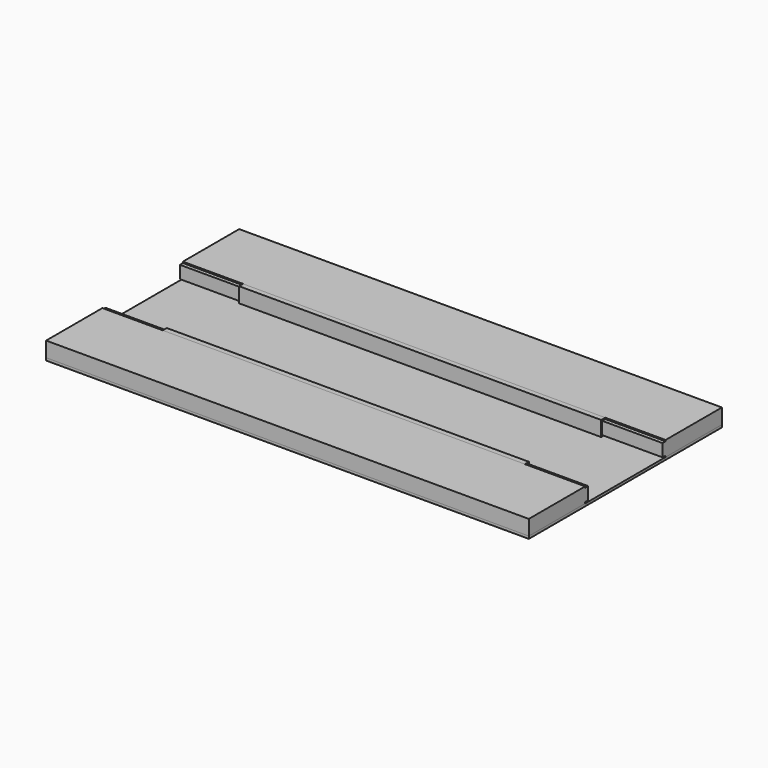
from build123d import *

# Parameters (mm, degrees)
F0_W     = 2438.4
F0_H     = 1219.2
F1_DEPTH = 12.7
F2_W     = 2438.4
F2_H     = 381
F3_DEPTH = 76.2
F5_DEPTH = 2438.401
F7_DEPTH = 914.4


with BuildPart() as f1:
    # F0 (on Top) → F1 (new body)
    with BuildSketch(Plane.XY):
        Rectangle(F0_W, F0_H)
    extrude(amount=F1_DEPTH)


with BuildPart() as f3:
    # F2 (on face) → F3 (new body)
    with BuildSketch(Plane.XY.offset(12.7)):
        with Locations((0, 419.1)):
            Rectangle(F2_W, F2_H)
        with Locations((0, -419.1)):
            Rectangle(F2_W, F2_H)
    extrude(amount=F3_DEPTH)

    # F4 (on face) → F5 (cut, through all)
    with BuildSketch(Plane(origin=(-1219.2, 0, 0), x_dir=(0, -1, 0), z_dir=(-1, 0, 0))):
        Polygon((-228.6, 88.9), (-254, 88.9), (-254, 82.55), (-234.95, 82.55), (-234.95, 19.05), (-254, 19.05), (-254, 12.7), (-228.6, 12.7), align=None)
        Polygon((254, 82.55), (254, 88.9), (228.6, 88.9), (228.6, 12.7), (254, 12.7), (254, 19.05), (234.95, 19.05), (234.95, 82.55), align=None)
    extrude(amount=-F5_DEPTH, mode=Mode.SUBTRACT)


with BuildPart() as f7:
    # F6 (on Right) → F7 (new body, symmetric)
    with BuildSketch(Plane.YZ):
        Polygon((254, 82.55), (254, 88.9), (228.6, 88.9), (228.6, 12.7), (254, 12.7), (254, 19.05), (234.95, 19.05), (234.95, 82.55), align=None)
        Polygon((-228.6, 88.9), (-254, 88.9), (-254, 82.55), (-234.95, 82.55), (-234.95, 19.05), (-254, 19.05), (-254, 12.7), (-228.6, 12.7), align=None)
    extrude(amount=F7_DEPTH, both=True)


solid = Compound([f1.part, f3.part, f7.part])
